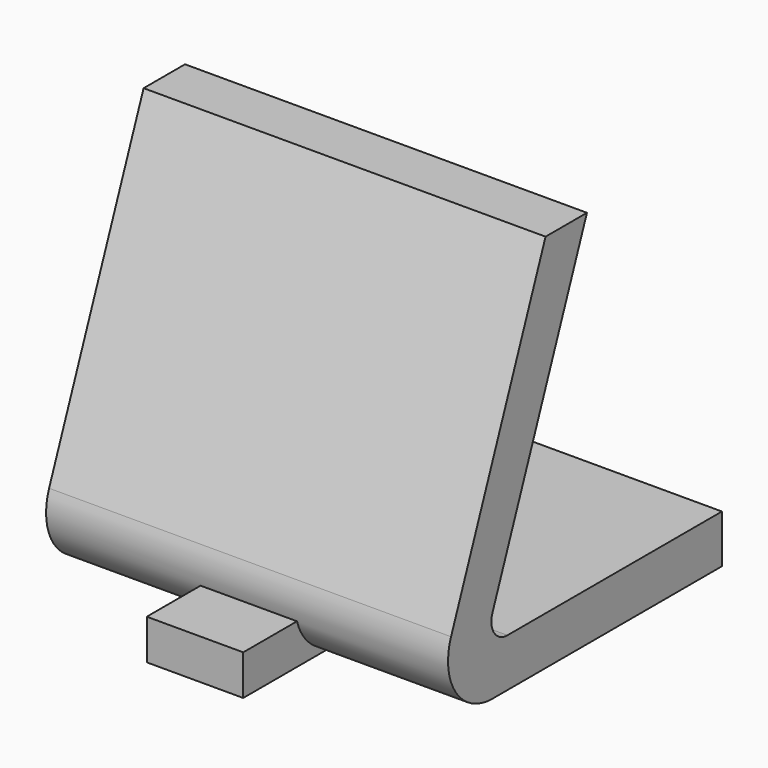
from build123d import *

# Parameters (mm, degrees)
F1_DEPTH = 25
F3_W     = 12
F3_H     = 15
F4_DEPTH = 5


with BuildPart() as f1:
    # F0 (on Right) → F1 (new body, symmetric)
    with BuildSketch(Plane.YZ):
        with BuildLine():
            Line((7.32267, 0), (43.003675, 0))
            Line((43.003675, 0), (43.003675, 6))
            Line((43.003675, 6), (9.653067, 6))
            ThreePointArc((9.653067, 6), (7.589961, 7.088053), (7.32267, 9.405125))
            Line((7.32267, 9.405125), (22.018672, 47.242465))
            Line((22.018672, 47.242465), (15.582, 47.242465))
            Line((15.582, 47.242465), (0.885998, 9.405125))
            ThreePointArc((0.885998, 9.405125), (1.624268, 3.005257), (7.32267, 0))
        make_face()
    extrude(amount=F1_DEPTH, both=True)

    # F3 (on Top) → F4 (join)
    with BuildSketch(Plane.XY):
        with Locations((0, -0.17733)):
            Rectangle(F3_W, F3_H)
    extrude(amount=F4_DEPTH)


solid = f1.part
